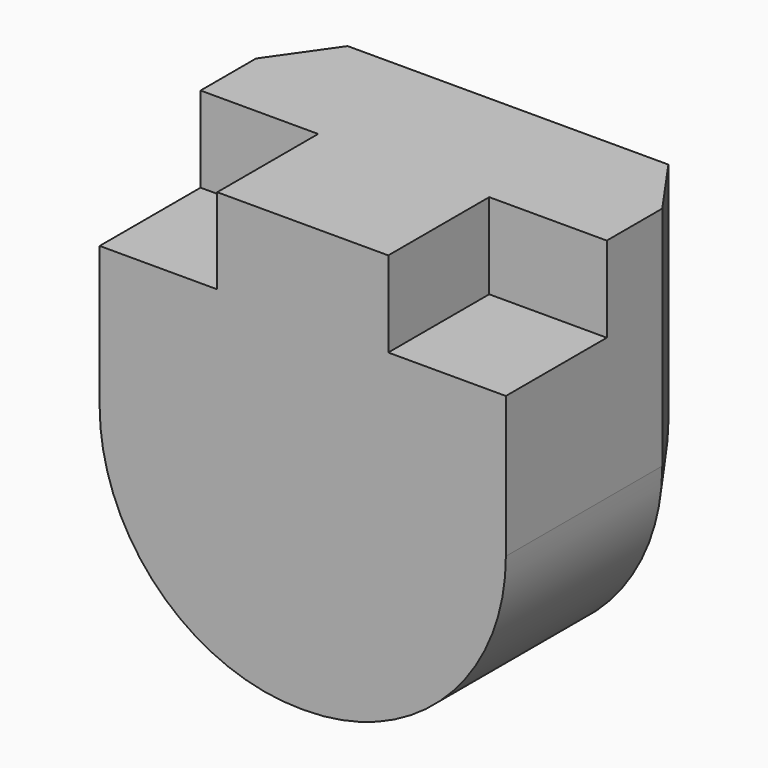
from build123d import *

# Parameters (mm, degrees)
F0_W     = 2.75
F0_H     = 2
F1_DEPTH = 6
F2_DEPTH = 2.95
F3_R     = 4.7
F4_SIZE2 = 1.4281480067
F4_SIZE  = 1


with BuildPart() as f1:
    # F0 (on Front) → F1 (new body)
    with BuildSketch(Plane.XZ):
        with Locations((3.375, 4)):
            Rectangle(F0_W, F0_H)
        Polygon((2, 3), (2, 5), (0, 5), (-2, 5), (-2, 3), align=None)
        Polygon((4.75, -5), (4.75, 3), (2, 3), (-2, 3), (-4.75, 3), (-4.75, -5), align=None)
        with Locations((-3.375, 4)):
            Rectangle(F0_W, F0_H)
    extrude(amount=-F1_DEPTH)

    # F0 (on Front) → F2 (cut)
    with BuildSketch(Plane.XZ):
        with Locations((-3.375, 4)):
            Rectangle(F0_W, F0_H)
        with Locations((3.375, 4)):
            Rectangle(F0_W, F0_H)
    extrude(amount=-F2_DEPTH, mode=Mode.SUBTRACT)

    # F3
    f3_edges = [f1.edges().sort_by_distance(p)[0] for p in [
        (-4.75, 3, -5),
        (4.75, 3, -5),
    ]]
    fillet(f3_edges, radius=F3_R)

    # F4
    f4_edges = [f1.edges().sort_by_distance(p)[0] for p in [
        (3.373402, 6, -3.623402),
        (-3.373402, 6, -3.623402),
        (0, 6, -5),
    ]]
    f4_side = f1.faces().sort_by_distance((0, 6, 0.437938))[0]
    chamfer(f4_edges, length=F4_SIZE, length2=F4_SIZE2, reference=f4_side)


solid = f1.part
